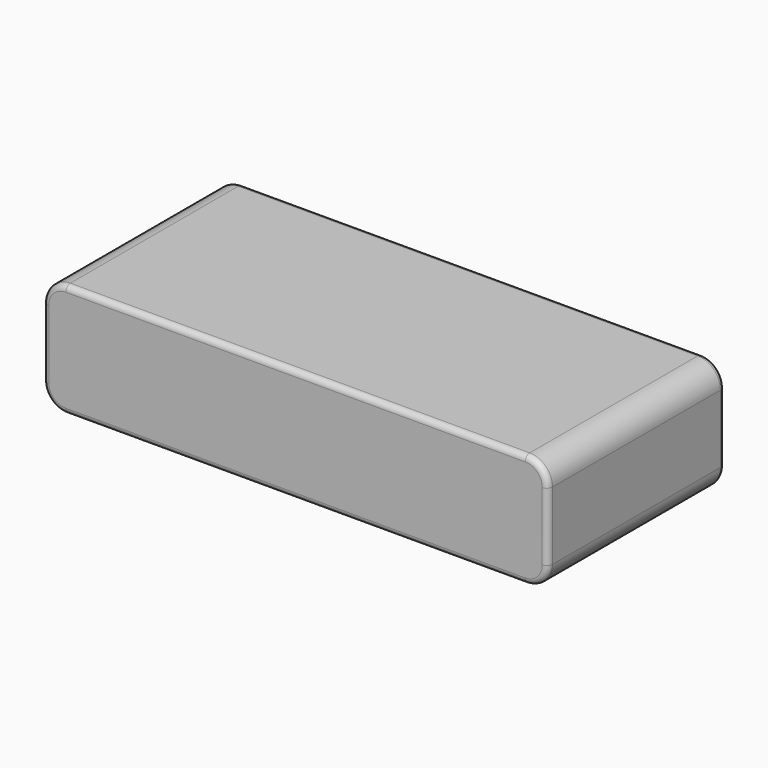
from build123d import *

# Parameters (mm, degrees)
F0_W     = 89
F0_H     = 39
F1_DEPTH = 20
F2_R     = 4
F3_R     = 1


with BuildPart() as f1:
    # F0 (on Top) → F1 (new body)
    with BuildSketch(Plane.XY):
        Rectangle(F0_W, F0_H)
    extrude(amount=F1_DEPTH)

    # F2
    f2_edges = [f1.edges().sort_by_distance(p)[0] for p in [
        (44.5, 0, 20),
        (44.5, 0, 0),
        (-44.5, 0, 20),
        (-44.5, 0, 0),
    ]]
    fillet(f2_edges, radius=F2_R)

    # F3
    f3_edges = [f1.edges().sort_by_distance(p)[0] for p in [
        (0, -19.5, 0),
        (0, 19.5, 0),
    ]]
    fillet(f3_edges, radius=F3_R)


solid = f1.part
